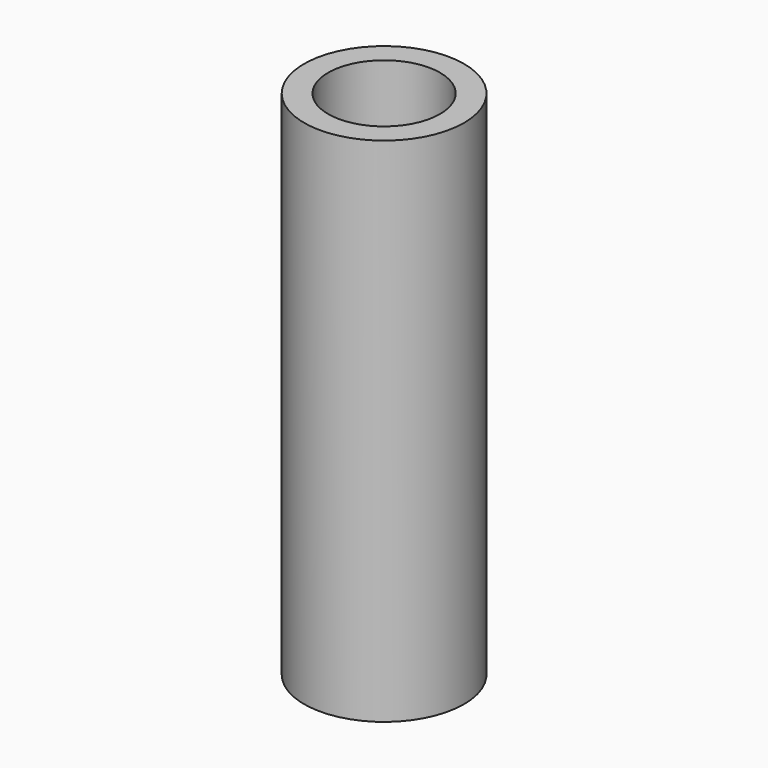
from build123d import *

# Parameters (mm, degrees)
F0_R     = 10
F0_R_2   = 7
F1_DEPTH = 64
F2_R     = 1.5
F3_DEPTH = 9


with BuildPart() as f1:
    # F0 (on Top) → F1 (new body)
    with BuildSketch(Plane.XY):
        Circle(F0_R)
        Circle(F0_R_2, mode=Mode.SUBTRACT)
    extrude(amount=F1_DEPTH)

    # F2 (on Front) → F3 (join, symmetric)
    with BuildSketch(Plane.XZ):
        with Locations((0, 56)):
            Circle(F2_R)
    extrude(amount=F3_DEPTH, both=True)


solid = f1.part
